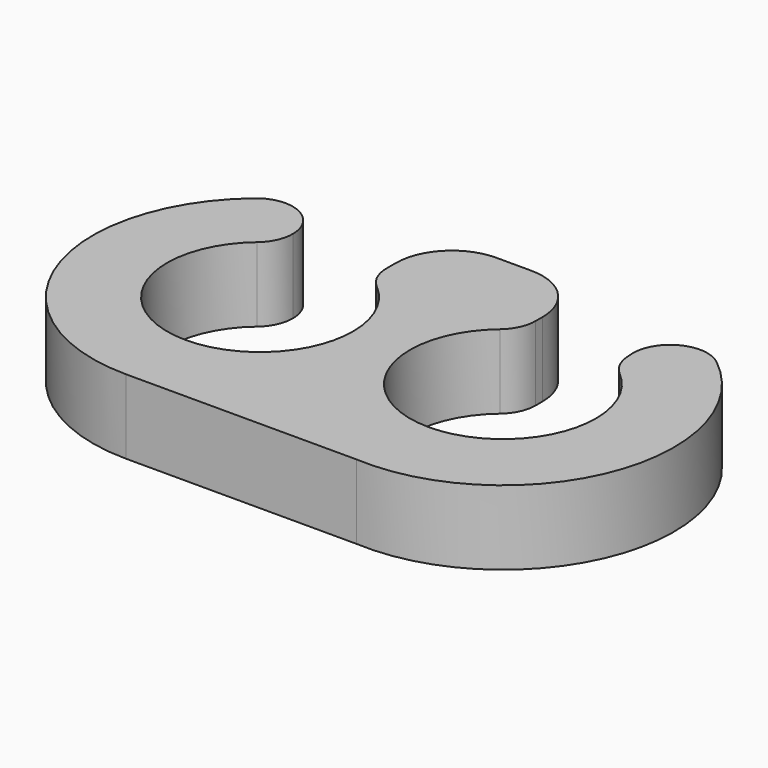
from build123d import *

# Parameters (mm, degrees)
F1_DEPTH = 2


with BuildPart() as f1:
    # F0 (on Top) → F1 (new body)
    with BuildSketch(Plane.XY):
        with BuildLine():
            ThreePointArc((-35.647177, -11.612993), (-37.26008, -16.023109), (-38.872983, -11.612993))
            ThreePointArc((-38.872983, -11.612993), (-38.611182, -11.270159), (-38.518145, -10.848947))
            ThreePointArc((-38.518145, -10.848947), (-39.096933, -9.941984), (-40.163306, -10.0849))
            ThreePointArc((-40.163306, -10.0849), (-41.486304, -15.068758), (-37.26008, -18.023109))
            Line((-37.26008, -18.023109), (-31.06008, -18.023109))
            ThreePointArc((-31.06008, -18.023109), (-26.503752, -15.071855), (-27.929494, -9.833793))
            ThreePointArc((-27.929494, -9.833793), (-29.049154, -9.746371), (-29.543951, -10.754565))
            ThreePointArc((-29.543951, -10.754565), (-29.450913, -11.175777), (-29.189112, -11.518612))
            ThreePointArc((-29.189112, -11.518612), (-30.802016, -15.928728), (-32.414919, -11.518612))
            ThreePointArc((-32.414919, -11.518612), (-32.153118, -11.175777), (-32.06008, -10.754565))
            Line((-32.06008, -10.754565), (-32.06008, -10.523109))
            ThreePointArc((-32.06008, -10.523109), (-32.49942, -9.462449), (-33.56008, -9.023109))
            Line((-33.56008, -9.023109), (-34.502016, -9.023109))
            ThreePointArc((-34.502016, -9.023109), (-35.562676, -9.462449), (-36.002016, -10.523109))
            Line((-36.002016, -10.523109), (-36.002016, -10.848947))
            ThreePointArc((-36.002016, -10.848947), (-35.908978, -11.270159), (-35.647177, -11.612993))
        make_face()
    extrude(amount=F1_DEPTH)


solid = f1.part
